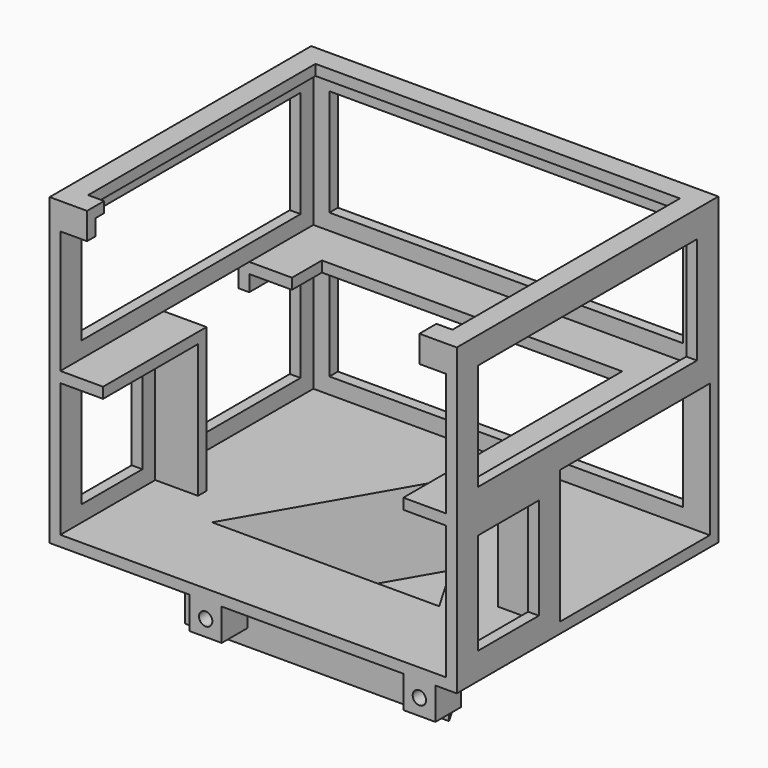
from build123d import *

# Parameters (mm, degrees)
SKETCH_R        = 1.75
PAD_DEPTH       = 2
PAD001_DEPTH    = 13
SKETCH002_W     = 76.2
SKETCH002_H     = 61.2
PAD002_DEPTH    = 2
PAD003_DEPTH    = 25
SKETCH004_W     = 14.2
SKETCH004_H     = 19
SKETCH004_W_2   = 29
POCKET_DEPTH    = 2
SKETCH005_W     = 66.2
SKETCH005_H     = 19
POCKET001_DEPTH = 2
SKETCH006_W     = 35
SKETCH006_H     = 25
SKETCH006_W_2   = 14.2
SKETCH006_H_2   = 19
POCKET002_DEPTH = 2
PAD004_DEPTH    = 2
PAD005_DEPTH    = 26
SKETCH009_W     = 51.2
SKETCH009_H     = 20
POCKET003_DEPTH = 2
SKETCH010_W     = 66.2
SKETCH010_H     = 20
POCKET004_DEPTH = 2
SKETCH011_W     = 51.2
SKETCH011_H     = 20
POCKET005_DEPTH = 2
PAD006_DEPTH    = 2
SKETCH013_W     = 5
SKETCH013_H     = 3
PAD007_DEPTH    = 2
SKETCH014_W     = 6
SKETCH014_H     = 6
SKETCH014_R     = 1.25
PAD008_DEPTH    = 6
SKETCH015_W     = 8
SKETCH015_H     = 20
POCKET006_DEPTH = 5
SKETCH016_W     = 20
SKETCH016_H     = 24
POCKET007_DEPTH = 5


with BuildPart() as part:
    # Sketch → Pad (new body)
    with BuildSketch(Plane.XY):
        Polygon((0, 28.537386), (-24.714102, -14.268693), (24.714102, -14.268693), align=None)
        with Locations((7.160898, 4.134347)):
            Circle(SKETCH_R, mode=Mode.SUBTRACT)
        with Locations((0, -8.268693)):
            Circle(SKETCH_R, mode=Mode.SUBTRACT)
        with Locations((-7.160898, 4.134347)):
            Circle(SKETCH_R, mode=Mode.SUBTRACT)
        Polygon((0, 8.537386), (-7.393594, -4.268693), (7.393594, -4.268693), align=None, mode=Mode.SUBTRACT)
    extrude(amount=PAD_DEPTH)

    # Sketch001 (on Face11 of Pad) → Pad001 (join)
    with BuildSketch(Plane.XY.offset(2)):
        Polygon((0, 28.537386), (-24.714102, -14.268693), (24.714102, -14.268693), align=None)
        Polygon((0, 24.537386), (-21.25, -12.268693), (21.25, -12.268693), align=None, mode=Mode.SUBTRACT)
    extrude(amount=PAD001_DEPTH)

    # Sketch002 (on Face14 of Pad001) → Pad002 (join)
    with BuildSketch(Plane.XY.offset(15)):
        with Locations((0, 1.4)):
            Rectangle(SKETCH002_W, SKETCH002_H)
        Polygon((0, 24.537386), (-21.25, -12.268693), (21.25, -12.268693), align=None, mode=Mode.SUBTRACT)
    extrude(amount=PAD002_DEPTH)

    # Sketch003 (on Face23 of Pad002) → Pad003 (join)
    with BuildSketch(Plane.XY.offset(17)):
        Polygon((-38.1, -29.2), (-38.1, 32), (38.1, 32), (38.1, -29.2), (36.1, -29.2), (36.1, -7), (28.1, -7), (28.1, -5), (36.1, -5), (36.1, 30), (-36.1, 30), (-36.1, -5), (-28.1, -5), (-28.1, -7), (-36.1, -7), (-36.1, -29.2), align=None)
    extrude(amount=PAD003_DEPTH)

    # Sketch004 (on Face39 of Pad003) → Pocket (cut)
    with BuildSketch(Plane.YZ.offset(-36.1)):
        with Locations((-17.1, 29.5)):
            Rectangle(SKETCH004_W, SKETCH004_H)
        with Locations((12.5, 29.5)):
            Rectangle(SKETCH004_W_2, SKETCH004_H)
    extrude(amount=-POCKET_DEPTH, mode=Mode.SUBTRACT)

    # Sketch005 (on Face46 of Pocket) → Pocket001 (cut)
    with BuildSketch(Plane.XZ.offset(-30)):
        with Locations((0, 29.5)):
            Rectangle(SKETCH005_W, SKETCH005_H)
    extrude(amount=-POCKET001_DEPTH, mode=Mode.SUBTRACT)

    # Sketch006 (on Face49 of Pocket001) → Pocket002 (cut)
    with BuildSketch(Plane(origin=(36.1, 0, 0), x_dir=(0, -1, 0), z_dir=(-1, 0, 0))):
        with Locations((-12.5, 29.5)):
            Rectangle(SKETCH006_W, SKETCH006_H)
        with Locations((17.1, 29.5)):
            Rectangle(SKETCH006_W_2, SKETCH006_H_2)
    extrude(amount=-POCKET002_DEPTH, mode=Mode.SUBTRACT)

    # Sketch007 (on Face34 of Pocket002) → Pad004 (join)
    with BuildSketch(Plane.XY.offset(42)):
        Polygon((-38.1, -29.2), (-38.1, 32), (38.1, 32), (38.1, -29.2), (28.1, -29.2), (28.1, 22), (-28.1, 22), (-28.1, -29.2), align=None)
    extrude(amount=PAD004_DEPTH)

    # Sketch008 (on Face67 of Pad004) → Pad005 (join)
    with BuildSketch(Plane.XY.offset(44)):
        Polygon((-38.1, -29.2), (-38.1, 32), (38.1, 32), (38.1, -29.2), (36.1, -29.2), (36.1, 30), (-36.1, 30), (-36.1, -29.2), align=None)
    extrude(amount=PAD005_DEPTH)

    # Sketch009 (on Face82 of Pad005) → Pocket003 (cut)
    with BuildSketch(Plane.YZ.offset(-36.1)):
        with Locations((1.4, 57)):
            Rectangle(SKETCH009_W, SKETCH009_H)
    extrude(amount=-POCKET003_DEPTH, mode=Mode.SUBTRACT)

    # Sketch010 (on Face85 of Pocket003) → Pocket004 (cut)
    with BuildSketch(Plane.XZ.offset(-30)):
        with Locations((0, 57)):
            Rectangle(SKETCH010_W, SKETCH010_H)
    extrude(amount=-POCKET004_DEPTH, mode=Mode.SUBTRACT)

    # Sketch011 (on Face88 of Pocket004) → Pocket005 (cut)
    with BuildSketch(Plane(origin=(36.1, 0, 0), x_dir=(0, -1, 0), z_dir=(-1, 0, 0))):
        with Locations((-1.4, 57)):
            Rectangle(SKETCH011_W, SKETCH011_H)
    extrude(amount=-POCKET005_DEPTH, mode=Mode.SUBTRACT)

    # Sketch012 (on Face78 of Pocket005) → Pad006 (join)
    with BuildSketch(Plane.XY.offset(70)):
        Polygon((-38.1, -29.2), (-38.1, 32), (38.1, 32), (38.1, -29.2), (31.1, -29.2), (31.1, -25.2), (34.1, -25.2), (34.1, 28), (-34.1, 28), (-34.1, -25.2), (-31.1, -25.2), (-31.1, -29.2), align=None)
    extrude(amount=PAD006_DEPTH)

    # Sketch013 (on Face98 of Pad006) → Pad007 (join)
    with BuildSketch(Plane.XZ.offset(29.2)):
        with Locations((-33.6, 68.5)):
            Rectangle(SKETCH013_W, SKETCH013_H)
        with Locations((33.6, 68.5)):
            Rectangle(SKETCH013_W, SKETCH013_H)
    extrude(amount=-PAD007_DEPTH)

    # Sketch014 (on Face19 of Pad007) → Pad008 (join)
    with BuildSketch(Plane.XZ.offset(29.2)):
        with Locations((31.1, 12)):
            Rectangle(SKETCH014_W, SKETCH014_H)
        with Locations((31.1, 12)):
            Circle(SKETCH014_R, mode=Mode.SUBTRACT)
        with Locations((-8.9, 12)):
            Rectangle(SKETCH014_W, SKETCH014_H)
        with Locations((-8.9, 12)):
            Circle(SKETCH014_R, mode=Mode.SUBTRACT)
    extrude(amount=-PAD008_DEPTH)

    # Sketch015 (on Face83 of Pad008) → Pocket006 (cut)
    with BuildSketch(Plane.XY.offset(44)):
        with Locations((-32.1, 5)):
            Rectangle(SKETCH015_W, SKETCH015_H)
    extrude(amount=-POCKET006_DEPTH, mode=Mode.SUBTRACT)

    # Sketch016 (on Face61 of Pocket006) → Pocket007 (cut)
    with BuildSketch(Plane.YZ.offset(-36.1)):
        with Locations((5, 32)):
            Rectangle(SKETCH016_W, SKETCH016_H)
    extrude(amount=-POCKET007_DEPTH, mode=Mode.SUBTRACT)


solid = part.part
